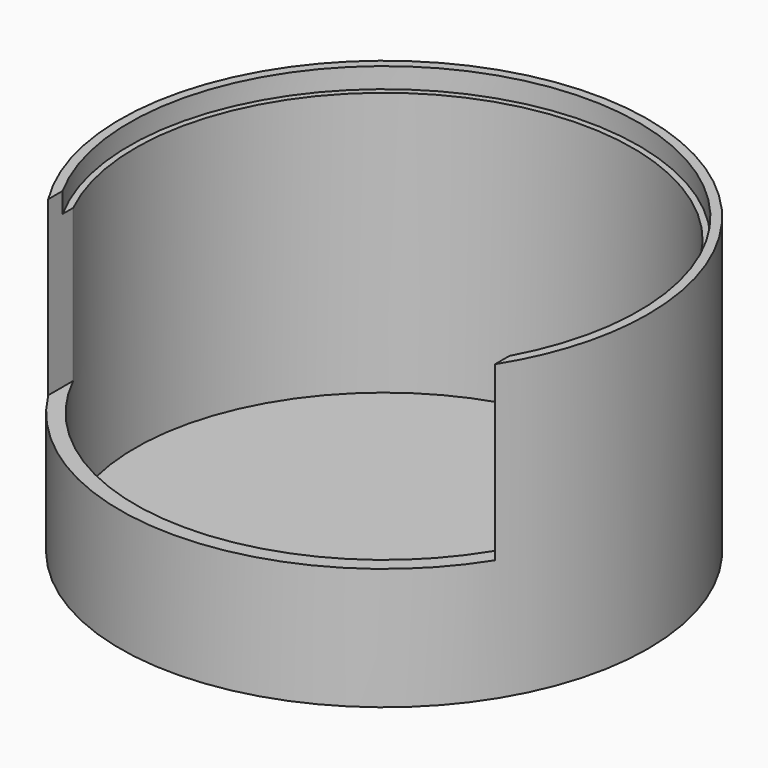
from build123d import *

# Parameters (mm, degrees)
SKETCH003_W     = 44
SKETCH003_H     = 20
PAD001_DEPTH    = 17
SKETCH_R        = 26
PAD_DEPTH       = 29
SKETCH001_R     = 25.1
POCKET_DEPTH    = 2
SKETCH002_R     = 24.5
POCKET001_DEPTH = 26


with BuildPart() as pad001:
    # Sketch003 → Pad001 (new body)
    with BuildSketch(Plane.XY.offset(12)):
        with Locations((0, -17)):
            Rectangle(SKETCH003_W, SKETCH003_H)
    extrude(amount=PAD001_DEPTH)


with BuildPart() as cut:
    # Sketch → Pad (new body)
    with BuildSketch(Plane.XY):
        Circle(SKETCH_R)
    extrude(amount=PAD_DEPTH)

    # Sketch001 → Pocket (cut)
    with BuildSketch(Plane.XY.offset(29)):
        Circle(SKETCH001_R)
    extrude(amount=-POCKET_DEPTH, mode=Mode.SUBTRACT)

    # Sketch002 → Pocket001 (cut)
    with BuildSketch(Plane.XY.offset(27)):
        Circle(SKETCH002_R)
    extrude(amount=-POCKET001_DEPTH, mode=Mode.SUBTRACT)

    # Cut: cut Pad001
    add(pad001.part, mode=Mode.SUBTRACT)


solid = cut.part
